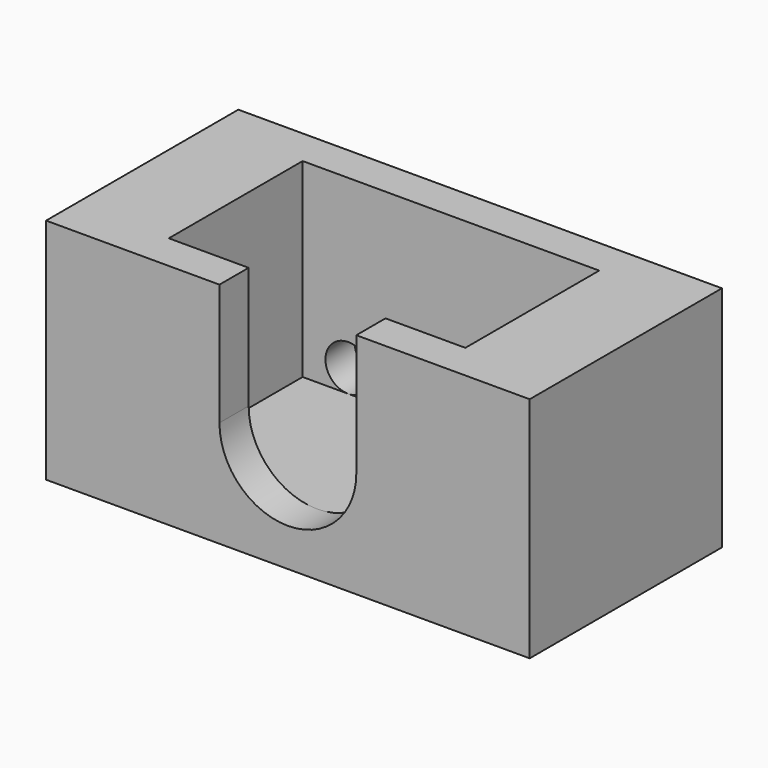
from build123d import *

# Parameters (mm, degrees)
F0_W     = 31.8
F0_H     = 15.8
F1_DEPTH = 15
F3_DEPTH = 2.4
F4_DEPTH = 2.5
F5_R     = 1.5
F6_DEPTH = 2.4
F7_DEPTH = 2


with BuildPart() as f1:
    # F0 (on Top) → F1 (new body)
    with BuildSketch(Plane.XY):
        Rectangle(F0_W, F0_H)
        with BuildLine():
            Line((-9.75, 4.8351646544), (-9.75, 5.5))
            Line((-9.75, 5.5), (-6.0734993995, 5.5))
            ThreePointArc((-6.0734993995, 5.5), (-4.2, 6.4), (-2.3265006005, 5.5))
            Line((-2.3265006005, 5.5), (1.7265006005, 5.5))
            ThreePointArc((1.7265006005, 5.5), (3.6, 6.4), (5.4734993995, 5.5))
            Line((5.4734993995, 5.5), (9.5265006005, 5.5))
            ThreePointArc((9.5265006005, 5.5), (12.1948589312, 6.2645527769), (13.8, 4))
            ThreePointArc((13.8, 4), (12.3486832981, 1.7954592315), (9.75, 2.2571574942))
            Line((9.75, 2.2571574942), (9.75, -2.0571574942))
            ThreePointArc((9.75, -2.0571574942), (12.3486832981, -1.5954592315), (13.8, -3.8))
            ThreePointArc((13.8, -3.8), (12.3203646443, -6.016512784), (9.7058925654, -5.5))
            Line((9.7058925654, -5.5), (5.2941074346, -5.5))
            ThreePointArc((5.2941074346, -5.5), (3.6, -6.2), (1.9058925654, -5.5))
            Line((1.9058925654, -5.5), (-2.5058925654, -5.5))
            ThreePointArc((-2.5058925654, -5.5), (-4.2, -6.2), (-5.8941074346, -5.5))
            Line((-5.8941074346, -5.5), (-9.75, -5.5))
            Line((-9.75, -5.5), (-9.75, -4.6351646544))
            ThreePointArc((-9.75, -4.6351646544), (-14.4, -3.8), (-9.75, -2.9648353456))
            Line((-9.75, -2.9648353456), (-9.75, 3.1648353456))
            ThreePointArc((-9.75, 3.1648353456), (-14.4, 4), (-9.75, 4.8351646544))
        make_face(mode=Mode.SUBTRACT)
        with BuildLine():
            Line((-9.75, -4.6351646544), (-9.75, -2.9648353456))
            ThreePointArc((-9.75, -2.9648353456), (-14.4, -3.8), (-9.75, -4.6351646544))
        make_face()
        with BuildLine():
            Line((-9.75, 3.1648353456), (-9.75, 4.8351646544))
            ThreePointArc((-9.75, 4.8351646544), (-14.4, 4), (-9.75, 3.1648353456))
        make_face()
        with BuildLine():
            ThreePointArc((13.8, 4), (12.1948589312, 6.2645527769), (9.5265006005, 5.5))
            Line((9.5265006005, 5.5), (9.75, 5.5))
            Line((9.75, 5.5), (9.75, 2.2571574942))
            ThreePointArc((9.75, 2.2571574942), (12.3486832981, 1.7954592315), (13.8, 4))
        make_face()
        with BuildLine():
            ThreePointArc((13.8, -3.8), (12.3486832981, -1.5954592315), (9.75, -2.0571574942))
            Line((9.75, -2.0571574942), (9.75, -5.5))
            Line((9.75, -5.5), (9.7058925654, -5.5))
            ThreePointArc((9.7058925654, -5.5), (12.3203646443, -6.016512784), (13.8, -3.8))
        make_face()
        with BuildLine():
            ThreePointArc((-2.3265006005, 5.5), (-4.2, 6.4), (-6.0734993995, 5.5))
            Line((-6.0734993995, 5.5), (-2.3265006005, 5.5))
        make_face()
        with BuildLine():
            ThreePointArc((5.4734993995, 5.5), (3.6, 6.4), (1.7265006005, 5.5))
            Line((1.7265006005, 5.5), (5.4734993995, 5.5))
        make_face()
        with BuildLine():
            Line((5.2941074346, -5.5), (1.9058925654, -5.5))
            ThreePointArc((1.9058925654, -5.5), (3.6, -6.2), (5.2941074346, -5.5))
        make_face()
        with BuildLine():
            Line((-2.5058925654, -5.5), (-5.8941074346, -5.5))
            ThreePointArc((-5.8941074346, -5.5), (-4.2, -6.2), (-2.5058925654, -5.5))
        make_face()
    extrude(amount=F1_DEPTH)

    # F2 (on face) → F3 (cut, through all)
    with BuildSketch(Plane.XZ.offset(7.9)):
        with BuildLine():
            Line((4.5, 15), (-4.5, 15))
            Line((-4.5, 15), (-4.5, 7))
            ThreePointArc((-4.5, 7), (0, 2.5), (4.5, 7))
            Line((4.5, 7), (4.5, 15))
        make_face()
    extrude(amount=-F3_DEPTH, mode=Mode.SUBTRACT)

    # F0 (on Top) → F4 (join)
    with BuildSketch(Plane.XY):
        with BuildLine():
            Line((-6.0734993995, 5.5), (-9.75, 5.5))
            Line((-9.75, 5.5), (-9.75, 4.8351646544))
            ThreePointArc((-9.75, 4.8351646544), (-9.6377976378, 4.4242640687), (-9.6, 4))
            ThreePointArc((-9.6, 4), (-9.6377976378, 3.5757359313), (-9.75, 3.1648353456))
            Line((-9.75, 3.1648353456), (-9.75, -2.9648353456))
            ThreePointArc((-9.75, -2.9648353456), (-9.6377976378, -3.3757359313), (-9.6, -3.8))
            ThreePointArc((-9.6, -3.8), (-9.6377976378, -4.2242640687), (-9.75, -4.6351646544))
            Line((-9.75, -4.6351646544), (-9.75, -5.5))
            Line((-9.75, -5.5), (-5.8941074346, -5.5))
            ThreePointArc((-5.8941074346, -5.5), (-5.1203646443, -1.583487216), (-1.8, -3.8))
            ThreePointArc((-1.8, -3.8), (-1.983487216, -4.7203646443), (-2.5058925654, -5.5))
            Line((-2.5058925654, -5.5), (1.9058925654, -5.5))
            ThreePointArc((1.9058925654, -5.5), (2.6796353557, -1.583487216), (6, -3.8))
            ThreePointArc((6, -3.8), (5.816512784, -4.7203646443), (5.2941074346, -5.5))
            Line((5.2941074346, -5.5), (9.7058925654, -5.5))
            ThreePointArc((9.7058925654, -5.5), (9.0001969324, -3.7692553009), (9.75, -2.0571574942))
            Line((9.75, -2.0571574942), (9.75, 2.2571574942))
            ThreePointArc((9.75, 2.2571574942), (9.0056798702, 3.8349814676), (9.5265006005, 5.5))
            Line((9.5265006005, 5.5), (5.4734993995, 5.5))
            ThreePointArc((5.4734993995, 5.5), (5.8645527769, 4.7948589312), (6, 4))
            ThreePointArc((6, 4), (2.8051410688, 1.7354472231), (1.7265006005, 5.5))
            Line((1.7265006005, 5.5), (-2.3265006005, 5.5))
            ThreePointArc((-2.3265006005, 5.5), (-1.9354472231, 4.7948589312), (-1.8, 4))
            ThreePointArc((-1.8, 4), (-4.9948589312, 1.7354472231), (-6.0734993995, 5.5))
        make_face()
        with BuildLine():
            ThreePointArc((6, -3.8), (2.6796353557, -1.583487216), (1.9058925654, -5.5))
            Line((1.9058925654, -5.5), (5.2941074346, -5.5))
            ThreePointArc((5.2941074346, -5.5), (5.816512784, -4.7203646443), (6, -3.8))
        make_face()
        with BuildLine():
            ThreePointArc((-1.8, -3.8), (-5.1203646443, -1.583487216), (-5.8941074346, -5.5))
            Line((-5.8941074346, -5.5), (-2.5058925654, -5.5))
            ThreePointArc((-2.5058925654, -5.5), (-1.983487216, -4.7203646443), (-1.8, -3.8))
        make_face()
        with BuildLine():
            Line((-2.3265006005, 5.5), (-6.0734993995, 5.5))
            ThreePointArc((-6.0734993995, 5.5), (-4.9948589312, 1.7354472231), (-1.8, 4))
            ThreePointArc((-1.8, 4), (-1.9354472231, 4.7948589312), (-2.3265006005, 5.5))
        make_face()
        with BuildLine():
            Line((5.4734993995, 5.5), (1.7265006005, 5.5))
            ThreePointArc((1.7265006005, 5.5), (2.8051410688, 1.7354472231), (6, 4))
            ThreePointArc((6, 4), (5.8645527769, 4.7948589312), (5.4734993995, 5.5))
        make_face()
        with BuildLine():
            Line((9.75, -5.5), (9.75, -2.0571574942))
            ThreePointArc((9.75, -2.0571574942), (9.0001969324, -3.7692553009), (9.7058925654, -5.5))
            Line((9.7058925654, -5.5), (9.75, -5.5))
        make_face()
        with BuildLine():
            Line((9.75, 5.5), (9.5265006005, 5.5))
            ThreePointArc((9.5265006005, 5.5), (9.0056798702, 3.8349814676), (9.75, 2.2571574942))
            Line((9.75, 2.2571574942), (9.75, 5.5))
        make_face()
        with BuildLine():
            ThreePointArc((-9.6, 4), (-9.6377976378, 4.4242640687), (-9.75, 4.8351646544))
            Line((-9.75, 4.8351646544), (-9.75, 3.1648353456))
            ThreePointArc((-9.75, 3.1648353456), (-9.6377976378, 3.5757359313), (-9.6, 4))
        make_face()
        with BuildLine():
            ThreePointArc((-9.6, -3.8), (-9.6377976378, -3.3757359313), (-9.75, -2.9648353456))
            Line((-9.75, -2.9648353456), (-9.75, -4.6351646544))
            ThreePointArc((-9.75, -4.6351646544), (-9.6377976378, -4.2242640687), (-9.6, -3.8))
        make_face()
    extrude(amount=F4_DEPTH)

    # F5 (on face) → F6 (cut, through all)
    with BuildSketch(Plane(origin=(0, 7.9, 0), x_dir=(-1, 0, 0), z_dir=(0, 1, 0))):
        with Locations((6.75, 4)):
            Circle(F5_R)
    extrude(amount=-F6_DEPTH, mode=Mode.SUBTRACT)

    # F0 (on Top) → F7 (cut)
    with BuildSketch(Plane.XY):
        with BuildLine():
            ThreePointArc((13.8, 4), (12.1948589312, 6.2645527769), (9.5265006005, 5.5))
            Line((9.5265006005, 5.5), (9.75, 5.5))
            Line((9.75, 5.5), (9.75, 2.2571574942))
            ThreePointArc((9.75, 2.2571574942), (12.3486832981, 1.7954592315), (13.8, 4))
        make_face()
        with BuildLine():
            Line((9.75, 5.5), (9.5265006005, 5.5))
            ThreePointArc((9.5265006005, 5.5), (9.0056798702, 3.8349814676), (9.75, 2.2571574942))
            Line((9.75, 2.2571574942), (9.75, 5.5))
        make_face()
        with BuildLine():
            Line((5.4734993995, 5.5), (1.7265006005, 5.5))
            ThreePointArc((1.7265006005, 5.5), (2.8051410688, 1.7354472231), (6, 4))
            ThreePointArc((6, 4), (5.8645527769, 4.7948589312), (5.4734993995, 5.5))
        make_face()
        with BuildLine():
            ThreePointArc((5.4734993995, 5.5), (3.6, 6.4), (1.7265006005, 5.5))
            Line((1.7265006005, 5.5), (5.4734993995, 5.5))
        make_face()
        with BuildLine():
            Line((-2.3265006005, 5.5), (-6.0734993995, 5.5))
            ThreePointArc((-6.0734993995, 5.5), (-4.9948589312, 1.7354472231), (-1.8, 4))
            ThreePointArc((-1.8, 4), (-1.9354472231, 4.7948589312), (-2.3265006005, 5.5))
        make_face()
        with BuildLine():
            ThreePointArc((-2.3265006005, 5.5), (-4.2, 6.4), (-6.0734993995, 5.5))
            Line((-6.0734993995, 5.5), (-2.3265006005, 5.5))
        make_face()
        with BuildLine():
            Line((-9.75, 3.1648353456), (-9.75, 4.8351646544))
            ThreePointArc((-9.75, 4.8351646544), (-14.4, 4), (-9.75, 3.1648353456))
        make_face()
        with BuildLine():
            ThreePointArc((-9.6, 4), (-9.6377976378, 4.4242640687), (-9.75, 4.8351646544))
            Line((-9.75, 4.8351646544), (-9.75, 3.1648353456))
            ThreePointArc((-9.75, 3.1648353456), (-9.6377976378, 3.5757359313), (-9.6, 4))
        make_face()
        with BuildLine():
            Line((-9.75, -4.6351646544), (-9.75, -2.9648353456))
            ThreePointArc((-9.75, -2.9648353456), (-14.4, -3.8), (-9.75, -4.6351646544))
        make_face()
        with BuildLine():
            ThreePointArc((-9.6, -3.8), (-9.6377976378, -3.3757359313), (-9.75, -2.9648353456))
            Line((-9.75, -2.9648353456), (-9.75, -4.6351646544))
            ThreePointArc((-9.75, -4.6351646544), (-9.6377976378, -4.2242640687), (-9.6, -3.8))
        make_face()
        with BuildLine():
            ThreePointArc((-1.8, -3.8), (-5.1203646443, -1.583487216), (-5.8941074346, -5.5))
            Line((-5.8941074346, -5.5), (-2.5058925654, -5.5))
            ThreePointArc((-2.5058925654, -5.5), (-1.983487216, -4.7203646443), (-1.8, -3.8))
        make_face()
        with BuildLine():
            Line((-2.5058925654, -5.5), (-5.8941074346, -5.5))
            ThreePointArc((-5.8941074346, -5.5), (-4.2, -6.2), (-2.5058925654, -5.5))
        make_face()
        with BuildLine():
            ThreePointArc((6, -3.8), (2.6796353557, -1.583487216), (1.9058925654, -5.5))
            Line((1.9058925654, -5.5), (5.2941074346, -5.5))
            ThreePointArc((5.2941074346, -5.5), (5.816512784, -4.7203646443), (6, -3.8))
        make_face()
        with BuildLine():
            Line((5.2941074346, -5.5), (1.9058925654, -5.5))
            ThreePointArc((1.9058925654, -5.5), (3.6, -6.2), (5.2941074346, -5.5))
        make_face()
        with BuildLine():
            ThreePointArc((13.8, -3.8), (12.3486832981, -1.5954592315), (9.75, -2.0571574942))
            Line((9.75, -2.0571574942), (9.75, -5.5))
            Line((9.75, -5.5), (9.7058925654, -5.5))
            ThreePointArc((9.7058925654, -5.5), (12.3203646443, -6.016512784), (13.8, -3.8))
        make_face()
        with BuildLine():
            Line((9.75, -5.5), (9.75, -2.0571574942))
            ThreePointArc((9.75, -2.0571574942), (9.0001969324, -3.7692553009), (9.7058925654, -5.5))
            Line((9.7058925654, -5.5), (9.75, -5.5))
        make_face()
    extrude(amount=F7_DEPTH, mode=Mode.SUBTRACT)


solid = f1.part
